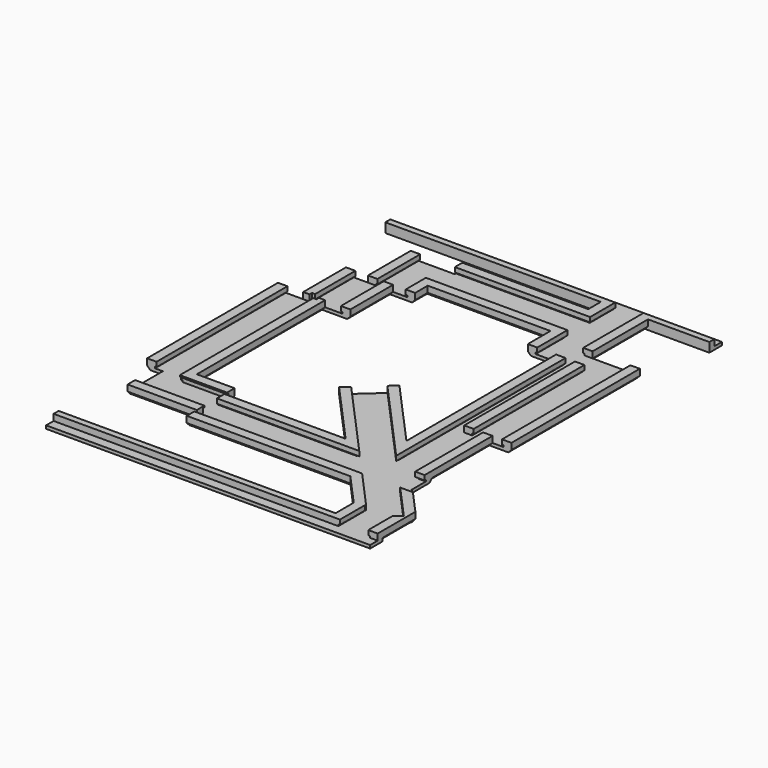
from build123d import *

# Parameters (mm, degrees)
PAD_DEPTH       = 51
PAD001_DEPTH    = 22
PAD002_DEPTH    = 66
PAD003_DEPTH    = 1
PAD004_DEPTH    = 25
PAD005_DEPTH    = 51
PAD006_DEPTH    = 17
PAD007_DEPTH    = 17
PAD008_DEPTH    = 17
PAD009_DEPTH    = 41
SKETCH010_W     = 2
SKETCH010_H     = 1
PAD010_DEPTH    = 7
POCKET_DEPTH    = 1
PAD011_DEPTH    = 68
POCKET001_DEPTH = 68
POCKET002_DEPTH = 70
POCKET003_DEPTH = 22
POCKET004_DEPTH = 54
POCKET005_DEPTH = 17
SKETCH018_W     = 3
SKETCH018_H     = 2
POCKET006_DEPTH = 2
POCKET007_DEPTH = 17
PAD012_DEPTH    = 17
PAD013_DEPTH    = 18
POCKET008_DEPTH = 70
SKETCH023_W     = 3
SKETCH023_H     = 5
PAD014_DEPTH    = 103
POCKET009_DEPTH = 13
SKETCH025_W     = 2
SKETCH025_H     = 3
POCKET010_DEPTH = 103
SKETCH026_W     = 3
SKETCH026_H     = 5
PAD015_DEPTH    = 103
SKETCH027_W     = 2
SKETCH027_H     = 3
POCKET011_DEPTH = 103
POCKET012_DEPTH = 31
POCKET013_DEPTH = 45
POCKET014_DEPTH = 28
PAD016_DEPTH    = 44
POCKET015_DEPTH = 51
SKETCH033_W     = 6
SKETCH033_H     = 7
POCKET016_DEPTH = 2


with BuildPart() as part:
    # Sketch → Pad (new body)
    with BuildSketch(Plane.XZ):
        Polygon((0, 0), (15, 0), (15, -2), (14, -3), (1, -3), (0, -2), align=None)
    extrude(amount=PAD_DEPTH)

    # Sketch001 (on Face2 of Pad) → Pad001 (join)
    with BuildSketch(Plane(origin=(5, 0, 0), x_dir=(0, 0, 1), z_dir=(1, 0, 0))):
        Polygon((0, 51), (0, 66), (-2, 66), (-3, 65), (-3, 52), (-2, 51), align=None)
    extrude(amount=PAD001_DEPTH)

    # Sketch002 (on Face14 of Pad001) → Pad002 (join)
    with BuildSketch(Plane(origin=(27, 0, 0), x_dir=(0, 0, 1), z_dir=(1, 0, 0))):
        Polygon((0, 70), (0, 55), (-2, 55), (-3, 56), (-3, 69), (-2, 70), align=None)
    extrude(amount=PAD002_DEPTH)

    # Sketch004 (on Face5 of Pad002) → Pad003 (join)
    with BuildSketch(Plane.XZ.offset(51)):
        Polygon((0, 0), (15, 0), (15, -2), (14, -3), (1, -3), (0, -2), align=None)
    extrude(amount=PAD003_DEPTH)

    # Sketch003 (on Face20 of Pad002) → Pad004 (join)
    with BuildSketch(Plane(origin=(0, -56, 0), x_dir=(1, 0, 0), z_dir=(0, 1, 0))):
        Polygon((93, 0), (78, 0), (78, 2), (79, 3), (92, 3), (93, 2), align=None)
    extrude(amount=PAD004_DEPTH)

    # Sketch005 (on Face38 of Pad004) → Pad005 (join)
    with BuildSketch(Plane(origin=(0, -31, 0), x_dir=(1, 0, 0), z_dir=(0, 1, 0))):
        Polygon((84, 0), (99, 0), (99, 2), (98, 3), (85, 3), (84, 2), align=None)
    extrude(amount=PAD005_DEPTH)

    # Sketch006 (on Face47 of Pad005) → Pad006 (join)
    with BuildSketch(Plane(origin=(0, 13, 0), x_dir=(1, 0, 0), z_dir=(0, 1, 0))):
        Polygon((69, 0), (84, 0), (84, 2), (83, 3), (70, 3), (69, 2), align=None)
    extrude(amount=PAD006_DEPTH)

    # Sketch007 (on Face4 of Pad006) → Pad007 (join)
    with BuildSketch(Plane(origin=(0, 0, 0), x_dir=(1, 0, 0), z_dir=(0, 1, 0))):
        Polygon((8, 0), (23, 0), (23, 2), (22, 3), (9, 3), (8, 2), align=None)
    extrude(amount=PAD007_DEPTH)

    # Sketch008 (on Face17 of Pad007) → Pad008 (join)
    with BuildSketch(Plane(origin=(0, 17, 0), x_dir=(1, 0, 0), z_dir=(0, 1, 0))):
        Polygon((15, 0), (30, 0), (30, 2), (29, 3), (16, 3), (15, 2), align=None)
    extrude(amount=PAD008_DEPTH)

    # Sketch009 (on Face31 of Pad008) → Pad009 (join)
    with BuildSketch(Plane(origin=(29, 0, 0), x_dir=(0, 0, 1), z_dir=(1, 0, 0))):
        Polygon((0, -37), (0, -22), (-2, -22), (-3, -23), (-3, -36), (-2, -37), align=None)
    extrude(amount=PAD009_DEPTH)

    # Sketch010 (on Face81 of Pad009) → Pad010 (join)
    with BuildSketch(Plane(origin=(0, 13, 0), x_dir=(1, 0, 0), z_dir=(0, 1, 0))):
        with Locations((84, 2.5)):
            Rectangle(SKETCH010_W, SKETCH010_H)
    extrude(amount=PAD010_DEPTH)

    # Sketch011 (on Face36 of Pad010) → Pocket (cut)
    with BuildSketch(Plane(origin=(0, 0, 0), x_dir=(-1, 0, 0), z_dir=(0, 0, 1))):
        Polygon((-90.1471723822, 70), (-79, 70), (-90.1471723822, 59.9630409046), align=None)
    extrude(amount=-POCKET_DEPTH, mode=Mode.SUBTRACT)

    # Sketch012 (on Face51 of Pocket) → Pad011 (join)
    with BuildSketch(Plane(origin=(38.0611229336, -42.2711594585, 0), x_dir=(0.7431448255, 0.6691306064, 0), z_dir=(0.6691306064, -0.7431448255, 0))):
        Polygon((11.8692987676, 0), (26.8692987676, 0), (26.8692987676, -2), (25.8692987676, -3), (12.8692987676, -3), (11.8692987676, -2), align=None)
    extrude(amount=PAD011_DEPTH)

    # Sketch013 (on Face80 of Pad011) → Pocket001 (cut)
    with BuildSketch(Plane(origin=(83.562004166, -92.805007591, 0), x_dir=(0.7431448255, 0.6691306064, 0), z_dir=(0.6691306064, -0.7431448255, 0))):
        Polygon((14.8692987676, 0), (23.8692987676, 0), (23.8692987676, -1.5), (24.3692987676, -1.5), (24.3692987676, -2), (14.3692987676, -2), (14.3692987676, -1.5), (14.8692987676, -1.5), align=None)
    extrude(amount=-POCKET001_DEPTH, mode=Mode.SUBTRACT)

    # Sketch014 (on Face46 of Pocket001) → Pocket002 (cut)
    with BuildSketch(Plane(origin=(27, 0, 0), x_dir=(0, 0, -1), z_dir=(-1, 0, 0))):
        Polygon((0, 67), (1.5, 67), (1.5, 67.5), (2, 67.5), (2, 57.5), (1.5, 57.5), (1.5, 58), (0, 58), align=None)
    extrude(amount=-POCKET002_DEPTH, mode=Mode.SUBTRACT)

    # Sketch015 (on Face34 of Pocket002) → Pocket003 (cut)
    with BuildSketch(Plane(origin=(5, 0, 0), x_dir=(0, 0, -1), z_dir=(-1, 0, 0))):
        Polygon((0, 63), (0.5, 63), (0.5, 63.5), (2, 63.5), (2, 53.5), (0.5, 53.5), (0.5, 54), (0, 54), align=None)
    extrude(amount=-POCKET003_DEPTH, mode=Mode.SUBTRACT)

    # Sketch016 (on Face4 of Pocket003) → Pocket004 (cut)
    with BuildSketch(Plane(origin=(0, 0, 0), x_dir=(1, 0, 0), z_dir=(0, 1, 0))):
        Polygon((2.5, 2), (12.5, 2), (12.5, 1.5), (12, 1.5), (12, 0), (3, 0), (3, 1.5), (2.5, 1.5), align=None)
    extrude(amount=-POCKET004_DEPTH, mode=Mode.SUBTRACT)

    # Sketch017 (on Face19 of Pocket004) → Pocket005 (cut)
    with BuildSketch(Plane(origin=(0, 17, 0), x_dir=(1, 0, 0), z_dir=(0, 1, 0))):
        Polygon((11, 0), (11, 1.5), (10.5, 1.5), (10.5, 2), (20.5, 2), (20.5, 1.5), (20, 1.5), (20, 0), align=None)
    extrude(amount=-POCKET005_DEPTH, mode=Mode.SUBTRACT)

    # Sketch018 (on Face48 of Pocket005) → Pocket006 (cut)
    with BuildSketch(Plane(origin=(0, 0, 0), x_dir=(-1, 0, 0), z_dir=(0, 0, 1))):
        with Locations((-11.5, 0)):
            Rectangle(SKETCH018_W, SKETCH018_H)
    extrude(amount=-POCKET006_DEPTH, mode=Mode.SUBTRACT)

    # Sketch019 (on Face63 of Pocket006) → Pocket007 (cut)
    with BuildSketch(Plane(origin=(0, 34, 0), x_dir=(1, 0, 0), z_dir=(0, 1, 0))):
        Polygon((18, 0), (18, 1.5), (17.5, 1.5), (17.5, 2), (27.5, 2), (27.5, 1.5), (27, 1.5), (27, 0), align=None)
    extrude(amount=-POCKET007_DEPTH, mode=Mode.SUBTRACT)

    # Sketch020 (on Face117 of Pocket007) → Pad012 (join)
    with BuildSketch(Plane(origin=(0, 30, 0), x_dir=(1, 0, 0), z_dir=(0, 1, 0))):
        Polygon((70, 3), (83, 3), (84, 2), (84, 0), (69, 0), (69, 2), align=None)
    extrude(amount=PAD012_DEPTH)

    # Sketch021 (on Face108 of Pad012) → Pad013 (join)
    with BuildSketch(Plane.XZ.offset(74.8)):
        Polygon((88.5297845093, 0), (103.5297845093, 0), (103.5297845093, -2), (102.5297845093, -3), (89.5297845093, -3), (88.5297845093, -2), align=None)
    extrude(amount=PAD013_DEPTH)

    # Sketch022 (on Face158 of Pad013) → Pocket008 (cut)
    with BuildSketch(Plane(origin=(38.0611229336, -42.2711594585, 0), x_dir=(0.7431448255, 0.6691306064, 0), z_dir=(-0.6691306064, 0.7431448255, 0))):
        Polygon((14.3692987676, 2), (24.3692987676, 2), (24.3692987676, 1.5), (23.8692987676, 1.5), (23.8692987676, 0), (14.8692987676, 0), (14.8692987676, 1.5), (14.3692987676, 1.5), align=None)
    extrude(amount=-POCKET008_DEPTH, mode=Mode.SUBTRACT)

    # Sketch023 (on Face171 of Pocket008) → Pad014 (join)
    with BuildSketch(Plane(origin=(103.5297845093, 0, 0), x_dir=(0, 0, -1), z_dir=(-1, 0, 0))):
        with Locations((1.5, 90.3)):
            Rectangle(SKETCH023_W, SKETCH023_H)
    extrude(amount=PAD014_DEPTH)

    # Sketch024 (on Face231 of Pad014) → Pocket009 (cut)
    with BuildSketch(Plane.XZ.offset(92.8)):
        Polygon((91.0297845093, -2), (101.0297845093, -2), (101.0297845093, -1.5), (100.5297845093, -1.5), (100.5297845093, 0), (91.5297845093, 0), (91.5297845093, -1.5), (91.0297845093, -1.5), align=None)
    extrude(amount=-POCKET009_DEPTH, mode=Mode.SUBTRACT)

    # Sketch025 (on Face210 of Pocket009) → Pocket010 (cut)
    with BuildSketch(Plane(origin=(0.5297845093, 0, 0), x_dir=(0, 0, -1), z_dir=(-1, 0, 0))):
        with Locations((1, 91.3)):
            Rectangle(SKETCH025_W, SKETCH025_H)
    extrude(amount=-POCKET010_DEPTH, mode=Mode.SUBTRACT)

    # Sketch026 (on Face150 of Pocket010) → Pad015 (join)
    with BuildSketch(Plane(origin=(0.5, 0, 0), x_dir=(0, 0, 1), z_dir=(1, 0, 0))):
        with Locations((-1.5, -44.5)):
            Rectangle(SKETCH026_W, SKETCH026_H)
    extrude(amount=PAD015_DEPTH)

    # Sketch027 (on Face187 of Pad015) → Pocket011 (cut)
    with BuildSketch(Plane(origin=(103.5, 0, 0), x_dir=(0, 0, 1), z_dir=(1, 0, 0))):
        with Locations((-1, -45.5)):
            Rectangle(SKETCH027_W, SKETCH027_H)
    extrude(amount=-POCKET011_DEPTH, mode=Mode.SUBTRACT)

    # Sketch028 (on Face117 of Pocket011) → Pocket012 (cut)
    with BuildSketch(Plane.XZ.offset(-13)):
        Polygon((71.5, -2), (81.5, -2), (81.5, -1.5), (81, -1.5), (81, 0), (72, 0), (72, -1.5), (71.5, -1.5), align=None)
    extrude(amount=-POCKET012_DEPTH, mode=Mode.SUBTRACT)

    # Sketch029 (on Face87 of Pocket012) → Pocket013 (cut)
    with BuildSketch(Plane(origin=(27, 0, 0), x_dir=(0, 0, -1), z_dir=(-1, 0, 0))):
        Polygon((2, -24.5), (2, -34.5), (1.5, -34.5), (1.5, -34), (0, -34), (0, -25), (1.5, -25), (1.5, -24.5), align=None)
    extrude(amount=-POCKET013_DEPTH, mode=Mode.SUBTRACT)

    # Sketch030 (on Face210 of Pocket013) → Pocket014 (cut)
    with BuildSketch(Plane(origin=(0, -31, 0), x_dir=(1, 0, 0), z_dir=(0, 1, 0))):
        Polygon((80.5, 2), (90.5, 2), (90.5, 1.5), (90, 1.5), (90, 0), (81, 0), (81, 1.5), (80.5, 1.5), align=None)
    extrude(amount=-POCKET014_DEPTH, mode=Mode.SUBTRACT)

    # Sketch031 (on Face234 of Pocket014) → Pad016 (join)
    with BuildSketch(Plane(origin=(0, -31, 0), x_dir=(1, 0, 0), z_dir=(0, 1, 0))):
        Polygon((78, 2), (79, 3), (85, 3), (85, 2), (80.5, 2), (80.5, 1.5), (81, 1.5), (81, 0), (78, 0), align=None)
    extrude(amount=PAD016_DEPTH)

    # Sketch032 (on Face205 of Pad016) → Pocket015 (cut)
    with BuildSketch(Plane(origin=(0, 20, 0), x_dir=(1, 0, 0), z_dir=(0, 1, 0))):
        Polygon((86.5, 2), (96.5, 2), (96.5, 1.5), (96, 1.5), (96, 0), (87, 0), (87, 1.5), (86.5, 1.5), align=None)
    extrude(amount=-POCKET015_DEPTH, mode=Mode.SUBTRACT)

    # Sketch033 (on Face207 of Pocket015) → Pocket016 (cut)
    with BuildSketch(Plane(origin=(0, 0, 0), x_dir=(-1, 0, 0), z_dir=(0, 0, 1))):
        with Locations((-84, -16.5)):
            Rectangle(SKETCH033_W, SKETCH033_H)
    extrude(amount=-POCKET016_DEPTH, mode=Mode.SUBTRACT)


solid = part.part
